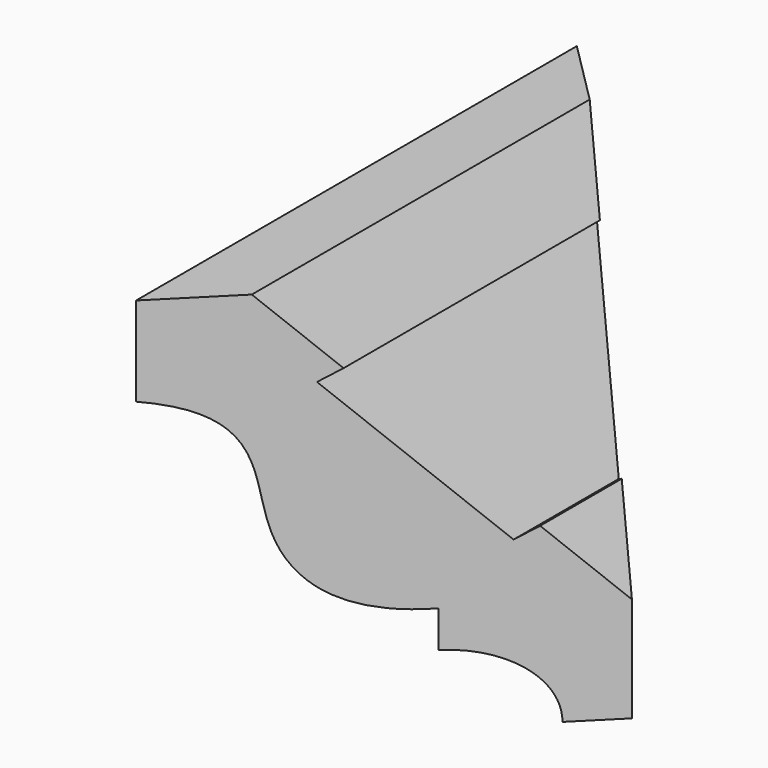
from build123d import *

# Parameters (mm, degrees)
F1_DEPTH = 76.2
F3_DEPTH = 63.5


with BuildPart() as f1:
    # F0 (on Front) → F1 (new body, symmetric)
    with BuildSketch(Plane.XZ):
        with BuildLine():
            ThreePointArc((3.1831930964, -14.5487436358), (9.9183851872, -17.338551545), (12.7081930964, -24.0737436358))
            Line((12.7081930964, -24.0737436358), (18.0421930964, -24.0737436358))
            Line((18.0421930964, -24.0737436358), (18.0421930964, -9.5957436358))
            Line((18.0421930964, -9.5957436358), (10.9887288065, -0.0582332264))
            Line((10.9887288065, -0.0582332264), (8.9465308884, -1.5685403684))
            Line((8.9465308884, -1.5685403684), (-6.1565405318, 18.8534388128))
            Line((-6.1565405318, 18.8534388128), (-4.1143426137, 20.3637459548))
            Line((-4.1143426137, 20.3637459548), (-11.1678069036, 29.9012563642))
            Line((-11.1678069036, 29.9012563642), (-20.0578069036, 29.9012563642))
            Line((-20.0578069036, 29.9012563642), (-20.0578069036, 17.5822563642))
            add(Edge.make_bspline(
                [(-20.0578069036, 17.5822563642), (-10.1148920839, 15.5647495743), (-12.2363609879, 0.8391823706), (-4.9954212044, -9.7400596384), (3.1831930964, -9.4687436358)],
                knots=[0, 0, 0, 0, 0.513981523, 1, 1, 1, 1], degree=3))
            Line((3.1831930964, -9.4687436358), (3.1831930964, -14.5487436358))
        make_face()
    extrude(amount=F1_DEPTH, both=True)

    # F2 (on Top) → F3 (intersect, symmetric)
    with BuildSketch(Plane.XY):
        Polygon((18.0421930964, 0), (-20.0578069036, 38.1), (-20.0578069036, -38.1), align=None)
    extrude(amount=F3_DEPTH, both=True, mode=Mode.INTERSECT)


solid = f1.part
